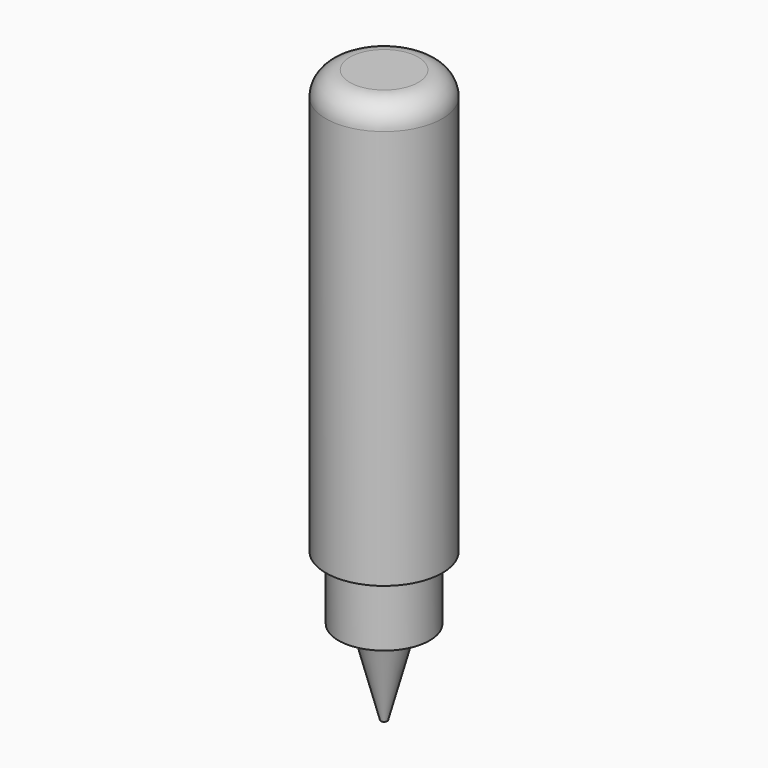
from build123d import *

# Parameters (mm, degrees)
F1_START = 70
F0_R     = 27.5
F0_R_2   = 21.5
F0_R_3   = 1.5
F1_DEPTH = 200
F2_START = 40
F2_DEPTH = 30
F3_DEPTH = 40
F3_TAPER = -15
F4_R     = 11.3468037432


with BuildPart() as f1:
    # F0 (on Top) → F1 (new body)
    with BuildSketch(Plane.XY.offset(F1_START)):
        with Locations((22.4150829017, 24.535804987)):
            Circle(F0_R)
        with Locations((22.4150829017, 24.535804987)):
            Circle(F0_R_2, mode=Mode.SUBTRACT)
        with Locations((22.4150829017, 24.535804987)):
            Circle(F0_R_2)
        with Locations((22.4150829017, 24.535804987)):
            Circle(F0_R_3, mode=Mode.SUBTRACT)
        with Locations((22.4150829017, 24.535804987)):
            Circle(F0_R_3)
    extrude(amount=F1_DEPTH)

    # F0 (on Top) → F2 (join)
    with BuildSketch(Plane.XY.offset(F2_START)):
        with Locations((22.4150829017, 24.535804987)):
            Circle(F0_R_2)
        with Locations((22.4150829017, 24.535804987)):
            Circle(F0_R_3, mode=Mode.SUBTRACT)
        with Locations((22.4150829017, 24.535804987)):
            Circle(F0_R_3)
    extrude(amount=F2_DEPTH)

    # F0 (on Top) → F3 (join)
    with BuildSketch(Plane.XY):
        with Locations((22.4150829017, 24.535804987)):
            Circle(F0_R_3)
    extrude(amount=F3_DEPTH, taper=F3_TAPER)

    # F4
    f4_edges = [f1.edges().sort_by_distance(p)[0] for p in [
        (-5.084917, 24.535805, 270),
    ]]
    fillet(f4_edges, radius=F4_R)


solid = f1.part
